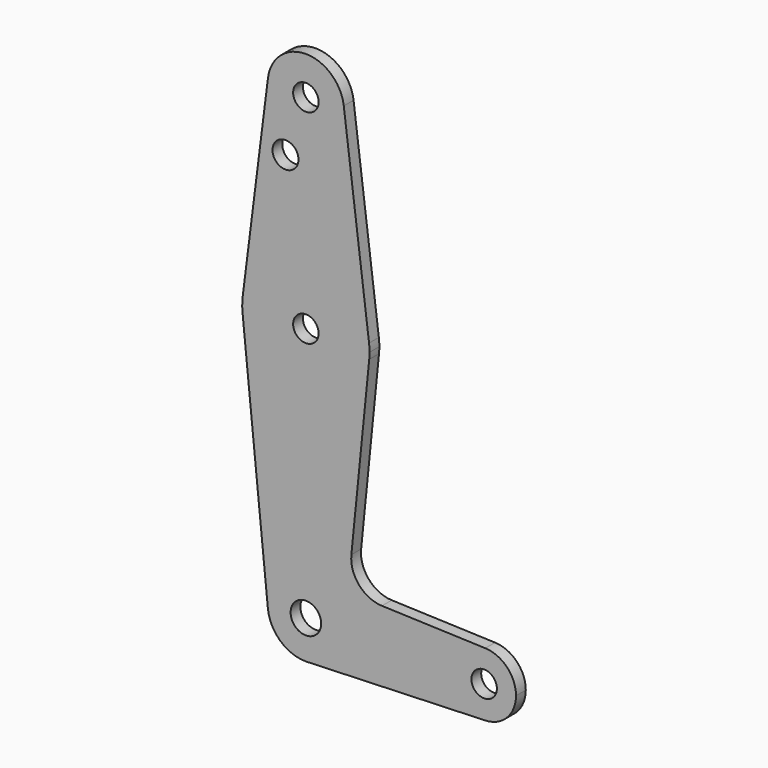
from build123d import *

# Parameters (mm, degrees)
F0_R     = 3.175
F0_R_2   = 3.2376
F0_R_3   = 3.81
F1_DEPTH = 3.048


with BuildPart() as f1:
    # F0 (on Front) → F1 (new body)
    with BuildSketch(Plane.XZ):
        with BuildLine():
            ThreePointArc((-9.450293, 115.490625), (-0.596483, 104.793695), (9.525, 114.3))
            ThreePointArc((9.525, 114.3), (9.506305, 114.896483), (9.450293, 115.490625))
            ThreePointArc((9.450293, 115.490625), (0, 123.825), (-9.450293, 115.490625))
        make_face()
        with Locations((0, 114.3)):
            Circle(F0_R, mode=Mode.SUBTRACT)
        with BuildLine():
            ThreePointArc((9.450293, 115.490625), (9.506305, 114.896483), (9.525, 114.3))
            ThreePointArc((9.525, 114.3), (-0.596483, 104.793695), (-9.450293, 115.490625))
            Line((-9.450293, 115.490625), (-15.750488, 65.484375))
            ThreePointArc((-15.750488, 65.484375), (0, 79.375), (15.750488, 65.484375))
            Line((15.750488, 65.484375), (9.450293, 115.490625))
        make_face()
        with Locations((-5.083247, 100.0252)):
            Circle(F0_R_2, mode=Mode.SUBTRACT)
        with BuildLine():
            ThreePointArc((15.875, 63.5), (15.843841, 64.494139), (15.750488, 65.484375))
            ThreePointArc((15.750488, 65.484375), (0, 79.375), (-15.750488, 65.484375))
            ThreePointArc((-15.750488, 65.484375), (-15.873744, 63.699705), (-15.795426, 61.9125))
            ThreePointArc((-15.795426, 61.9125), (0, 47.625), (15.795426, 61.9125))
            ThreePointArc((15.795426, 61.9125), (15.855094, 62.705253), (15.875, 63.5))
        make_face()
        with Locations((0, 63.5)):
            Circle(F0_R, mode=Mode.SUBTRACT)
        with BuildLine():
            ThreePointArc((15.795426, 61.9125), (0, 47.625), (-15.795426, 61.9125))
            Line((-15.795426, 61.9125), (-9.477255, -0.9525))
            ThreePointArc((-9.477255, -0.9525), (-0.476848, 9.513056), (9.525, 0))
            ThreePointArc((9.525, 0), (6.970557, -6.491299), (0.677344, -9.500886))
            Line((0.677344, -9.500886), (44.732405, -7.932475))
            ThreePointArc((44.732405, -7.932475), (36.5125, 0.000539), (44.733482, 7.932436))
            Line((44.733482, 7.932436), (18.9676, 8.853234))
            ThreePointArc((18.9676, 8.853234), (13.2612, 11.571359), (11.341187, 17.593382))
            Line((11.341187, 17.593382), (15.795426, 61.9125))
        make_face()
        with BuildLine():
            ThreePointArc((9.525, 0), (-0.476848, 9.513056), (-9.477255, -0.9525))
            ThreePointArc((-9.477255, -0.9525), (-6.389564, -7.063929), (0, -9.525))
            Line((0, -9.525), (0.677344, -9.500886))
            ThreePointArc((0.677344, -9.500886), (6.970557, -6.491299), (9.525, 0))
        make_face()
        Circle(F0_R_3, mode=Mode.SUBTRACT)
        with BuildLine():
            Line((0.677344, -9.500886), (0, -9.525))
            ThreePointArc((0, -9.525), (0.338886, -9.51897), (0.677344, -9.500886))
        make_face()
        with BuildLine():
            ThreePointArc((52.3875, 0), (50.162007, 5.511523), (44.733482, 7.932436))
            ThreePointArc((44.733482, 7.932436), (36.5125, 0.000539), (44.732405, -7.932475))
            ThreePointArc((44.732405, -7.932475), (50.161633, -5.51191), (52.3875, 0))
        make_face()
        with Locations((44.45, 0)):
            Circle(F0_R, mode=Mode.SUBTRACT)
    extrude(amount=F1_DEPTH)


solid = f1.part
